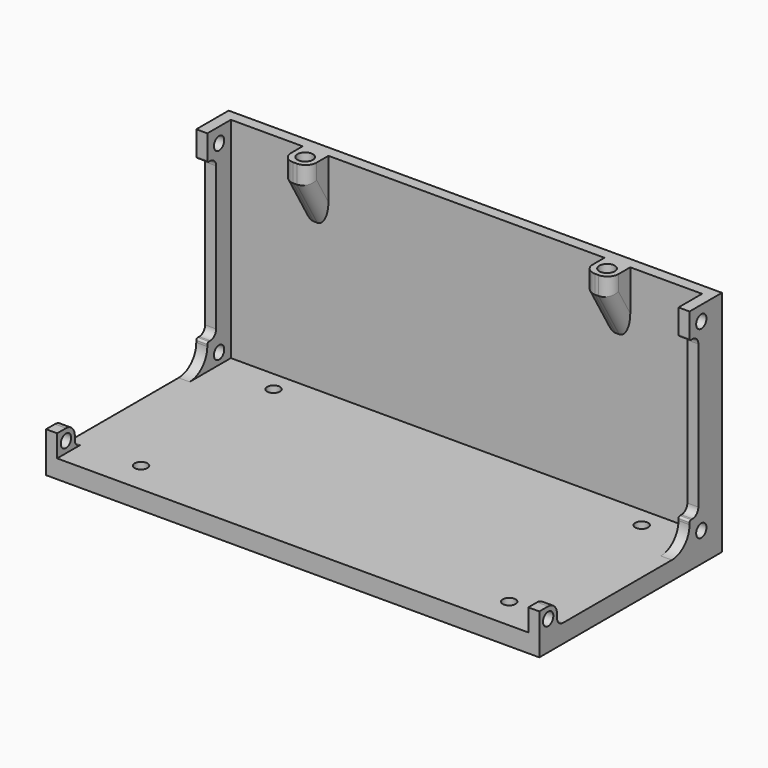
from build123d import *

# Parameters (mm, degrees)
SKETCH_W        = 134
SKETCH_H        = 62
PAD_DEPTH       = 5
SKETCH001_W     = 134
SKETCH001_H     = 3
PAD001_DEPTH    = 57
SKETCH002_W     = 7
SKETCH002_H     = 17
PAD002_DEPTH    = 7
POCKET_DEPTH    = 89
FILLET_R        = 3
SKETCH004_W     = 3
SKETCH004_H     = 57
PAD003_DEPTH    = 5
SKETCH005_W     = 3
SKETCH005_H     = 7
PAD004_DEPTH    = 3
SKETCH006_R     = 1.75
POCKET001_DEPTH = 134.001
SKETCH007_R     = 1.75
POCKET002_DEPTH = 5
SKETCH008_R     = 1.75
POCKET003_DEPTH = 5
SKETCH009_W     = 3
SKETCH009_H     = 6
PAD005_DEPTH    = 6
SKETCH010_R     = 1.75
POCKET004_DEPTH = 134.001
FILLET001_R     = 3
FILLET002_R     = 2
FILLET003_R     = 3
FILLET004_R     = 2
FILLET005_R     = 6
FILLET006_R     = 6
FILLET007_R     = 2
FILLET008_R     = 0.5
FILLET009_R     = 2
FILLET010_R     = 0.5
FILLET011_R     = 2
FILLET012_R     = 0.5
FILLET013_R     = 2
FILLET014_R     = 0.5
SKETCH011_R     = 1.75
POCKET005_DEPTH = 5
SKETCH012_R     = 2.1
POCKET006_DEPTH = 5


with BuildPart() as part:
    # Sketch → Pad (new body)
    with BuildSketch(Plane.XY):
        with Locations((67, -31)):
            Rectangle(SKETCH_W, SKETCH_H)
    extrude(amount=PAD_DEPTH)

    # Sketch001 (on Face6 of Pad) → Pad001 (join)
    with BuildSketch(Plane.XY.offset(5)):
        with Locations((67, -1.5)):
            Rectangle(SKETCH001_W, SKETCH001_H)
    extrude(amount=PAD001_DEPTH)

    # Sketch002 (on Face11 of Pad001) → Pad002 (join)
    with BuildSketch(Plane.XZ.offset(3)):
        with Locations((26, 53.5)):
            Rectangle(SKETCH002_W, SKETCH002_H)
        with Locations((108, 53.5)):
            Rectangle(SKETCH002_W, SKETCH002_H)
    extrude(amount=PAD002_DEPTH)

    # Sketch003 (on Face14 of Pad002) → Pocket (cut)
    with BuildSketch(Plane(origin=(22.5, 0, 0), x_dir=(0, -1, 0), z_dir=(-1, 0, 0))):
        Polygon((3, 45), (10, 57), (10, 45), align=None)
    extrude(amount=-POCKET_DEPTH, mode=Mode.SUBTRACT)

    # Fillet
    fillet_edges = [part.edges().sort_by_distance(p)[0] for p in [
        (104.5, -10, 59.5),
        (111.5, -10, 59.5),
        (111.5, -6.5, 51),
        (104.5, -6.5, 51),
        (22.5, -10, 59.5),
        (29.5, -10, 59.5),
        (29.5, -6.5, 51),
        (22.5, -6.5, 51),
    ]]
    fillet(fillet_edges, radius=FILLET_R)

    # Sketch004 (on Face1 of Fillet) → Pad003 (join)
    with BuildSketch(Plane.XZ.offset(3)):
        with Locations((1.5, 33.5)):
            Rectangle(SKETCH004_W, SKETCH004_H)
        with Locations((132.5, 33.5)):
            Rectangle(SKETCH004_W, SKETCH004_H)
    extrude(amount=PAD003_DEPTH)

    # Sketch005 (on Face32 of Pad003) → Pad004 (join)
    with BuildSketch(Plane.XZ.offset(8)):
        with Locations((1.5, 8.5)):
            Rectangle(SKETCH005_W, SKETCH005_H)
        with Locations((1.5, 58.5)):
            Rectangle(SKETCH005_W, SKETCH005_H)
        with Locations((132.5, 8.5)):
            Rectangle(SKETCH005_W, SKETCH005_H)
        with Locations((132.5, 58.5)):
            Rectangle(SKETCH005_W, SKETCH005_H)
    extrude(amount=PAD004_DEPTH)

    # Sketch006 (on Face44 of Pad004) → Pocket001 (cut, through all)
    with BuildSketch(Plane(origin=(0, 0, 0), x_dir=(0, -1, 0), z_dir=(-1, 0, 0))):
        with Locations((7, 8)):
            Circle(SKETCH006_R)
    extrude(amount=-POCKET001_DEPTH, mode=Mode.SUBTRACT)

    # Sketch007 (on Face46 of Pocket001) → Pocket002 (cut)
    with BuildSketch(Plane(origin=(0, 0, 0), x_dir=(0, -1, 0), z_dir=(-1, 0, 0))):
        with Locations((7, 58)):
            Circle(SKETCH007_R)
    extrude(amount=-POCKET002_DEPTH, mode=Mode.SUBTRACT)

    # Sketch008 (on Face45 of Pocket002) → Pocket003 (cut)
    with BuildSketch(Plane.YZ.offset(134)):
        with Locations((-7, 58)):
            Circle(SKETCH008_R)
    extrude(amount=-POCKET003_DEPTH, mode=Mode.SUBTRACT)

    # Sketch009 (on Face10 of Pocket003) → Pad005 (join)
    with BuildSketch(Plane.XY.offset(5)):
        with Locations((1.5, -59)):
            Rectangle(SKETCH009_W, SKETCH009_H)
        with Locations((132.5, -59)):
            Rectangle(SKETCH009_W, SKETCH009_H)
    extrude(amount=PAD005_DEPTH)

    # Sketch010 (on Face60 of Pad005) → Pocket004 (cut, through all)
    with BuildSketch(Plane.YZ.offset(134)):
        with Locations((-59, 8)):
            Circle(SKETCH010_R)
    extrude(amount=-POCKET004_DEPTH, mode=Mode.SUBTRACT)

    # Fillet001
    fillet001_edges = [part.edges().sort_by_distance(p)[0] for p in [
        (132.5, -56, 11),
    ]]
    fillet(fillet001_edges, radius=FILLET001_R)

    # Fillet002
    fillet002_edges = [part.edges().sort_by_distance(p)[0] for p in [
        (132.5, -56, 5),
    ]]
    fillet(fillet002_edges, radius=FILLET002_R)

    # Fillet003
    fillet003_edges = [part.edges().sort_by_distance(p)[0] for p in [
        (1.5, -56, 11),
    ]]
    fillet(fillet003_edges, radius=FILLET003_R)

    # Fillet004
    fillet004_edges = [part.edges().sort_by_distance(p)[0] for p in [
        (1.5, -56, 5),
    ]]
    fillet(fillet004_edges, radius=FILLET004_R)

    # Fillet005
    fillet005_edges = [part.edges().sort_by_distance(p)[0] for p in [
        (1.5, -11, 5),
    ]]
    fillet(fillet005_edges, radius=FILLET005_R)

    # Fillet006
    fillet006_edges = [part.edges().sort_by_distance(p)[0] for p in [
        (132.5, -11, 5),
    ]]
    fillet(fillet006_edges, radius=FILLET006_R)

    # Fillet007
    fillet007_edges = [part.edges().sort_by_distance(p)[0] for p in [
        (1.5, -8, 12),
    ]]
    fillet(fillet007_edges, radius=FILLET007_R)

    # Fillet008
    fillet008_edges = [part.edges().sort_by_distance(p)[0] for p in [
        (1.5, -11, 12),
    ]]
    fillet(fillet008_edges, radius=FILLET008_R)

    # Fillet009
    fillet009_edges = [part.edges().sort_by_distance(p)[0] for p in [
        (132.5, -8, 12),
    ]]
    fillet(fillet009_edges, radius=FILLET009_R)

    # Fillet010
    fillet010_edges = [part.edges().sort_by_distance(p)[0] for p in [
        (132.5, -11, 12),
    ]]
    fillet(fillet010_edges, radius=FILLET010_R)

    # Fillet011
    fillet011_edges = [part.edges().sort_by_distance(p)[0] for p in [
        (1.5, -8, 55),
    ]]
    fillet(fillet011_edges, radius=FILLET011_R)

    # Fillet012
    fillet012_edges = [part.edges().sort_by_distance(p)[0] for p in [
        (1.5, -11, 55),
    ]]
    fillet(fillet012_edges, radius=FILLET012_R)

    # Fillet013
    fillet013_edges = [part.edges().sort_by_distance(p)[0] for p in [
        (132.5, -8, 55),
    ]]
    fillet(fillet013_edges, radius=FILLET013_R)

    # Fillet014
    fillet014_edges = [part.edges().sort_by_distance(p)[0] for p in [
        (132.5, -11, 55),
    ]]
    fillet(fillet014_edges, radius=FILLET014_R)

    # Sketch011 (on Face13 of Fillet014) → Pocket005 (cut)
    with BuildSketch(Plane.XY.offset(5)):
        with Locations((19, -8.5)):
            Circle(SKETCH011_R)
        with Locations((19, -53.5)):
            Circle(SKETCH011_R)
        with Locations((119, -53.5)):
            Circle(SKETCH011_R)
        with Locations((119, -8.5)):
            Circle(SKETCH011_R)
    extrude(amount=-POCKET005_DEPTH, mode=Mode.SUBTRACT)

    # Sketch012 (on Face73 of Pocket005) → Pocket006 (cut)
    with BuildSketch(Plane.XY.offset(62)):
        with Locations((26, -6.5)):
            Circle(SKETCH012_R)
        with Locations((108, -6.5)):
            Circle(SKETCH012_R)
    extrude(amount=-POCKET006_DEPTH, mode=Mode.SUBTRACT)


solid = part.part
